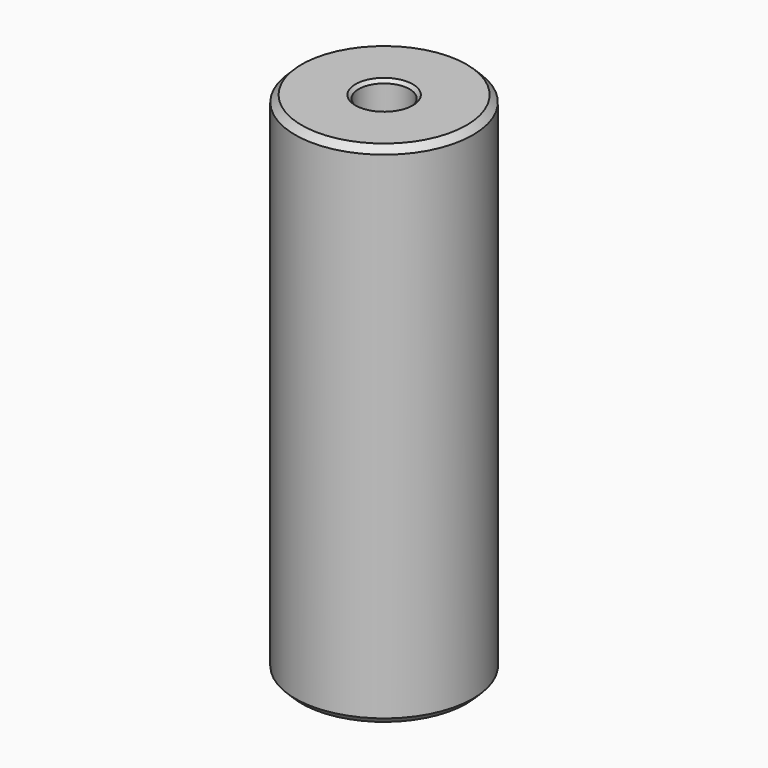
from build123d import *

# Parameters (mm, degrees)
F0_R     = 11
F0_R_2   = 7.7
F1_DEPTH = 25
F2_R     = 11
F3_DEPTH = 38
F5_DEPTH = 5
F6_R     = 3.15
F7_DEPTH = 50
F8_SIZE  = 0.8
F9_SIZE  = 0.4
F10_SIZE = 0.4


with BuildPart() as f1:
    # F0 (on Top) → F1 (new body)
    with BuildSketch(Plane.XY):
        Circle(F0_R)
        Circle(F0_R_2, mode=Mode.SUBTRACT)
    extrude(amount=F1_DEPTH)

    # F2 (on face) → F3 (join)
    with BuildSketch(Plane.XY.offset(25)):
        Circle(F2_R)
    extrude(amount=F3_DEPTH)

    # F4 (on face) → F5 (cut)
    with BuildSketch(Plane(origin=(0, 0, 25), x_dir=(1, 0, 0), z_dir=(0, 0, -1))):
        Polygon((-2.915619, -5.05), (2.915619, -5.05), (5.831238, 0), (2.915619, 5.05), (-2.915619, 5.05), (-5.831238, 0), align=None)
    extrude(amount=-F5_DEPTH, mode=Mode.SUBTRACT)

    # F6 (on face) → F7 (cut)
    with BuildSketch(Plane(origin=(0, 0, 30), x_dir=(1, 0, 0), z_dir=(0, 0, -1))):
        Circle(F6_R)
    extrude(amount=-F7_DEPTH, mode=Mode.SUBTRACT)

    # F8
    f8_edges = [f1.edges().sort_by_distance(p)[0] for p in [
        (-11, 0, 0),
        (-11, 0, 63),
    ]]
    chamfer(f8_edges, length=F8_SIZE)

    # F9
    f9_edges = [f1.edges().sort_by_distance(p)[0] for p in [
        (-3.15, 0, 63),
    ]]
    chamfer(f9_edges, length=F9_SIZE)

    # F10
    f10_edges = [f1.edges().sort_by_distance(p)[0] for p in [
        (-7.7, 0, 0),
    ]]
    chamfer(f10_edges, length=F10_SIZE)


solid = f1.part
